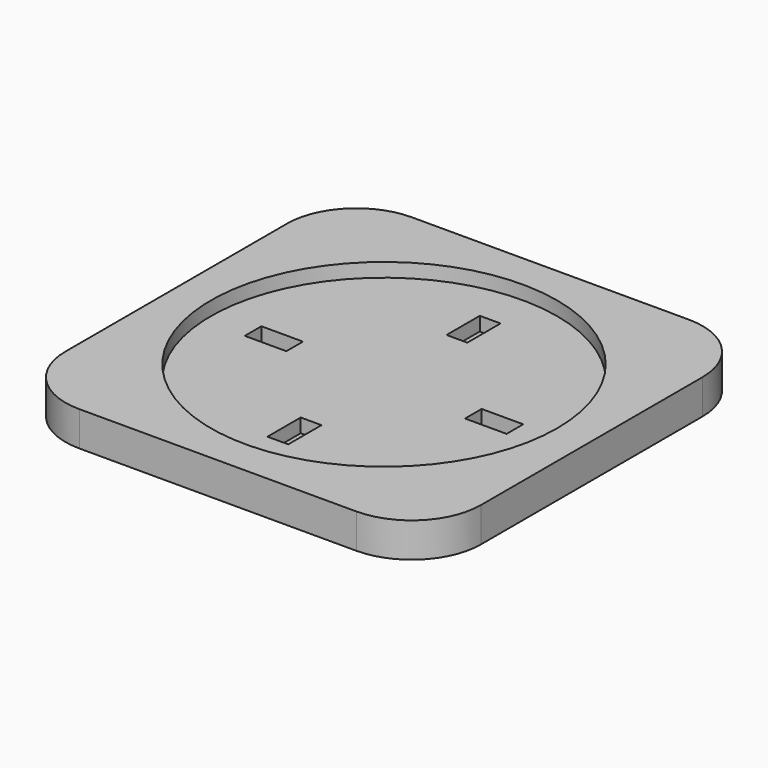
from build123d import *

# Parameters (mm, degrees)
F1_DEPTH = 5
F2_R     = 25
F3_DEPTH = 2
F4_W     = 3
F4_H     = 6
F4_W_2   = 6
F4_H_2   = 3
F5_DEPTH = 2


with BuildPart() as f1:
    # F0 (on Top) → F1 (new body)
    with BuildSketch(Plane.XY):
        with BuildLine():
            Line((20, 30), (-20, 30))
            ThreePointArc((-20, 30), (-27.071068, 27.071068), (-30, 20))
            Line((-30, 20), (-30, -20))
            ThreePointArc((-30, -20), (-27.071068, -27.071068), (-20, -30))
            Line((-20, -30), (20, -30))
            ThreePointArc((20, -30), (27.071068, -27.071068), (30, -20))
            Line((30, -20), (30, 20))
            ThreePointArc((30, 20), (27.071068, 27.071068), (20, 30))
        make_face()
    extrude(amount=F1_DEPTH)

    # F2 (on face) → F3 (cut)
    with BuildSketch(Plane.XY.offset(5)):
        Circle(F2_R)
    extrude(amount=-F3_DEPTH, mode=Mode.SUBTRACT)

    # F4 (on face) → F5 (cut)
    with BuildSketch(Plane.XY.offset(3)):
        with Locations((0.126, 16)):
            Rectangle(F4_W, F4_H)
        with Locations((-16, 0.126)):
            Rectangle(F4_W_2, F4_H_2)
        with Locations((16, -0.126)):
            Rectangle(F4_W_2, F4_H_2)
        with Locations((-0.126, -16)):
            Rectangle(F4_W, F4_H)
    extrude(amount=-F5_DEPTH, mode=Mode.SUBTRACT)


solid = f1.part
